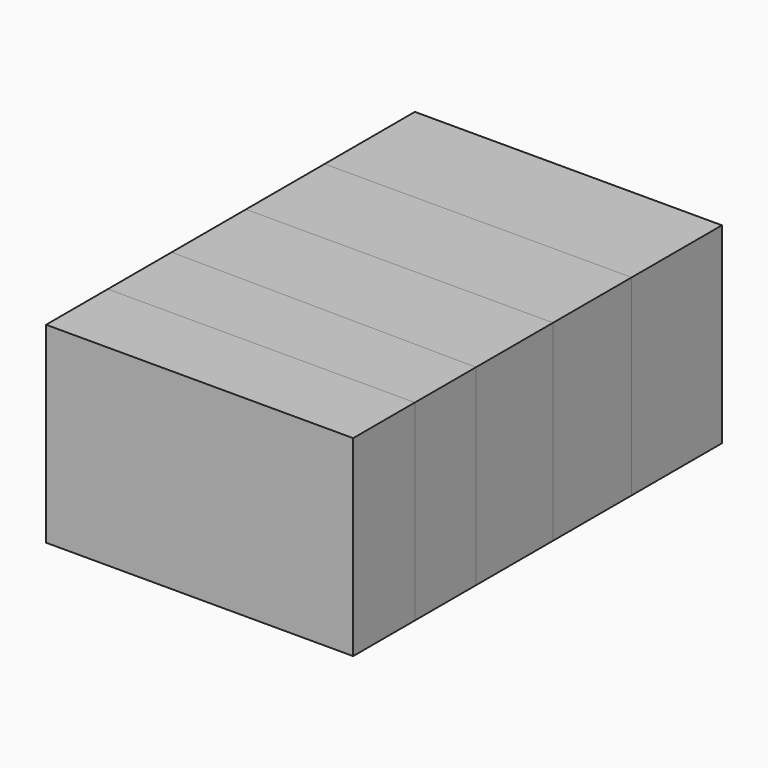
from build123d import *

# Parameters (mm, degrees)
F0_W     = 40
F0_H     = 14.7
F1_DEPTH = 25
F0_H_2   = 12.8
F2_DEPTH = 25
F3_DEPTH = 25
F4_DEPTH = 25
F5_DEPTH = 25


with BuildPart() as f1:
    # F0 (on Top) → F1 (new body)
    with BuildSketch(Plane.XY):
        with Locations((0, 32.7)):
            Rectangle(F0_W, F0_H)
    extrude(amount=F1_DEPTH)


with BuildPart() as f2:
    # F0 (on Top) → F2 (new body)
    with BuildSketch(Plane.XY):
        with Locations((0, 18.95)):
            Rectangle(F0_W, F0_H_2)
    extrude(amount=F2_DEPTH)


with BuildPart() as f3:
    # F0 (on Top) → F3 (new body)
    with BuildSketch(Plane.XY):
        Polygon((-20, 12.55), (-20, 0.45), (20, 0), (20, 12.55), align=None)
    extrude(amount=F3_DEPTH)


with BuildPart() as f4:
    # F0 (on Top) → F4 (new body)
    with BuildSketch(Plane.XY):
        Polygon((-20, 0.45), (-20, -9.95), (20, -9.95), (20, 0), align=None)
    extrude(amount=F4_DEPTH)


with BuildPart() as f5:
    # F0 (on Top) → F5 (new body)
    with BuildSketch(Plane.XY):
        Polygon((-20, -20), (0, -20), (20, -20), (20, -9.95), (-20, -9.95), align=None)
    extrude(amount=F5_DEPTH)


solid = Compound([f1.part, f2.part, f3.part, f4.part, f5.part])
